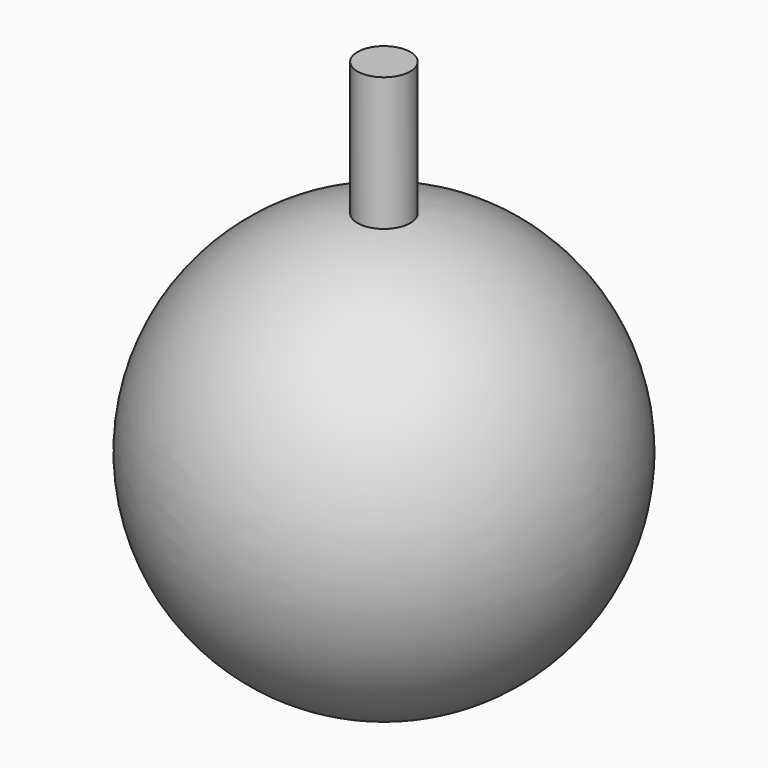
from build123d import *

# Parameters (mm, degrees)
F3_R     = 3.175
F4_DEPTH = 3.048


with BuildPart() as f1:
    # F0 (on Front) → F1 (revolve)
    with BuildSketch(Plane.XZ):
        with BuildLine():
            Line((-3.175, 41.2528), (-3.175, 25.200781))
            ThreePointArc((-3.175, 25.200781), (-25.350146, -1.590622), (0, -25.4))
            Line((0, -25.4), (0, 41.2528))
            Line((0, 41.2528), (-3.175, 41.2528))
        make_face()
    revolve(axis=Axis((0, 0, 7.9264), (0, 0, 1)))

    # F3 (on offset) → F4 (cut)
    with BuildSketch(Plane.XY.offset(-25.4)):
        Circle(F3_R)
    extrude(amount=F4_DEPTH, mode=Mode.SUBTRACT)


solid = f1.part
